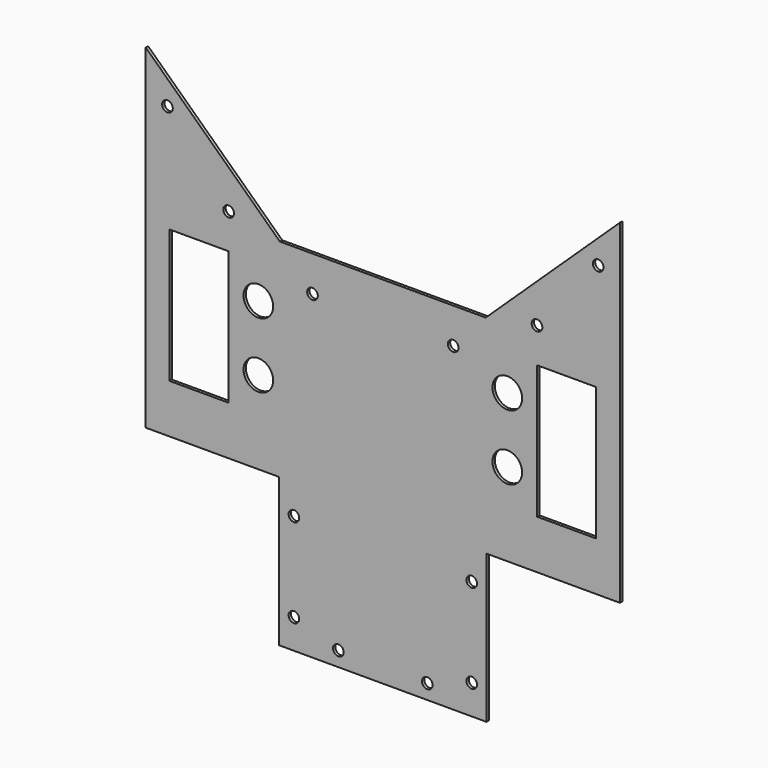
from build123d import *

# Parameters (mm, degrees)
F0_R     = 2.286
F0_R_2   = 6.35
F1_DEPTH = 1.27


with BuildPart() as f1:
    # F0 (on Front) → F1 (new body)
    with BuildSketch(Plane.XZ):
        Polygon((101.6, 130.742744), (44.088945, 76.2), (-44.088945, 76.2), (-101.6, 130.742744), (-101.6, 76.2), (-101.6, 50.8), (-101.6, -12.7), (-44.45, -12.7), (-44.45, -76.2), (44.45, -76.2), (44.45, -12.7), (101.6, -12.7), (101.6, 50.8), (101.6, 76.2), align=None)
        with Locations((-38.1, -63.5)):
            Circle(F0_R, mode=Mode.SUBTRACT)
        with Locations((-19.05, -69.85)):
            Circle(F0_R, mode=Mode.SUBTRACT)
        with Locations((-38.1, -25.4)):
            Circle(F0_R, mode=Mode.SUBTRACT)
        with Locations((-53.34, 22.86)):
            Circle(F0_R_2, mode=Mode.SUBTRACT)
        with Locations((19.05, -69.85)):
            Circle(F0_R, mode=Mode.SUBTRACT)
        with Locations((38.1, -63.5)):
            Circle(F0_R, mode=Mode.SUBTRACT)
        with Locations((38.1, -25.4)):
            Circle(F0_R, mode=Mode.SUBTRACT)
        with Locations((53.34, 22.86)):
            Circle(F0_R_2, mode=Mode.SUBTRACT)
        Polygon((-91.44, 8.255), (-91.44, 22.86), (-91.44, 50.8), (-91.44, 65.405), (-66.04, 65.405), (-66.04, 50.8), (-66.04, 22.86), (-66.04, 8.255), align=None, mode=Mode.SUBTRACT)
        with Locations((-53.34, 50.8)):
            Circle(F0_R_2, mode=Mode.SUBTRACT)
        with Locations((-30.144151, 60.997706)):
            Circle(F0_R, mode=Mode.SUBTRACT)
        with Locations((-66.071369, 80.417641)):
            Circle(F0_R, mode=Mode.SUBTRACT)
        with Locations((-92.2824, 111.554243)):
            Circle(F0_R, mode=Mode.SUBTRACT)
        with Locations((30.144151, 60.997706)):
            Circle(F0_R, mode=Mode.SUBTRACT)
        with Locations((53.34, 50.8)):
            Circle(F0_R_2, mode=Mode.SUBTRACT)
        Polygon((91.44, 50.8), (91.44, 22.86), (91.44, 8.255), (66.04, 8.255), (66.04, 22.86), (66.04, 50.8), (66.04, 65.405), (91.44, 65.405), align=None, mode=Mode.SUBTRACT)
        with Locations((66.071369, 80.417641)):
            Circle(F0_R, mode=Mode.SUBTRACT)
        with Locations((92.2824, 111.554243)):
            Circle(F0_R, mode=Mode.SUBTRACT)
    extrude(amount=F1_DEPTH)


solid = f1.part
